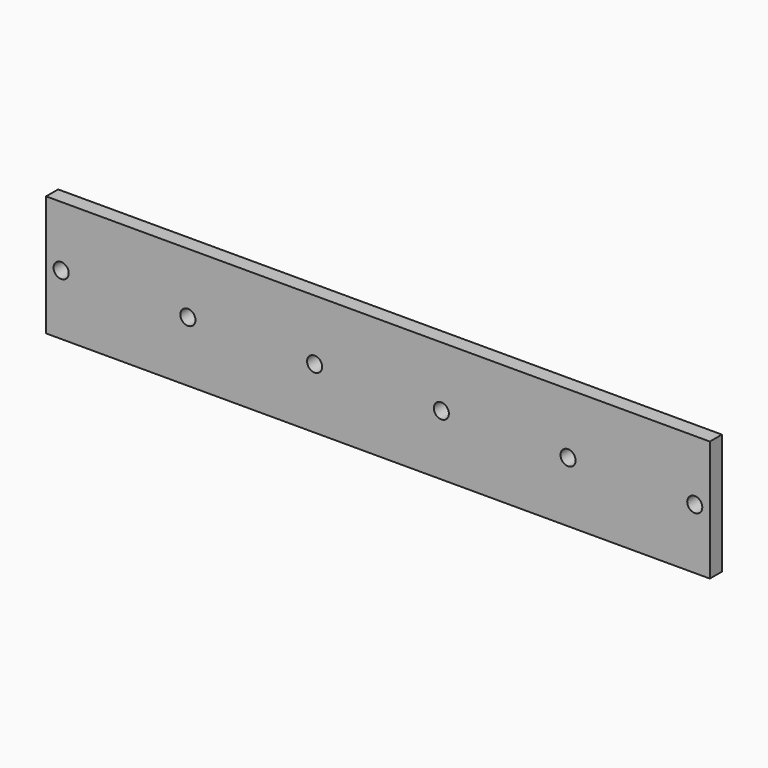
from build123d import *

# Parameters (mm, degrees)
F0_W     = 139.7
F0_H     = 25.4
F1_DEPTH = 3.175
F3_DEPTH = 25.4


with BuildPart() as f1:
    # F0 (on Front) → F1 (new body)
    with BuildSketch(Plane.XZ):
        Rectangle(F0_W, F0_H)
    extrude(amount=F1_DEPTH)

    # F2 (on face) → F3 (cut)
    with BuildSketch(Plane.XZ.offset(3.175)):
        with BuildLine():
            Line((-40.005, 0), (-38.4175, 0))
            ThreePointArc((-38.4175, 0), (-40.005, 1.5875), (-41.5925, 0))
            Line((-41.5925, 0), (-40.005, 0))
        make_face()
        with BuildLine():
            ThreePointArc((-68.2625, 0), (-66.675, -1.5875), (-65.0875, 0))
            Line((-65.0875, 0), (-66.675, 0))
            Line((-66.675, 0), (-68.2625, 0))
        make_face()
        with BuildLine():
            Line((-66.675, 0), (-65.0875, 0))
            ThreePointArc((-65.0875, 0), (-66.675, 1.5875), (-68.2625, 0))
            Line((-68.2625, 0), (-66.675, 0))
        make_face()
        with BuildLine():
            ThreePointArc((-41.5925, 0), (-40.005, -1.5875), (-38.4175, 0))
            Line((-38.4175, 0), (-40.005, 0))
            Line((-40.005, 0), (-41.5925, 0))
        make_face()
        with BuildLine():
            ThreePointArc((68.2625, 0), (66.675, 1.5875), (65.0875, 0))
            Line((65.0875, 0), (66.675, 0))
            Line((66.675, 0), (68.2625, 0))
        make_face()
        with BuildLine():
            Line((66.675, 0), (65.0875, 0))
            ThreePointArc((65.0875, 0), (66.675, -1.5875), (68.2625, 0))
            Line((68.2625, 0), (66.675, 0))
        make_face()
        with BuildLine():
            ThreePointArc((41.5925, 0), (40.005, 1.5875), (38.4175, 0))
            Line((38.4175, 0), (40.005, 0))
            Line((40.005, 0), (41.5925, 0))
        make_face()
        with BuildLine():
            Line((40.005, 0), (38.4175, 0))
            ThreePointArc((38.4175, 0), (40.005, -1.5875), (41.5925, 0))
            Line((41.5925, 0), (40.005, 0))
        make_face()
        with BuildLine():
            ThreePointArc((14.9225, 0), (13.335, 1.5875), (11.7475, 0))
            Line((11.7475, 0), (13.335, 0))
            Line((13.335, 0), (14.9225, 0))
        make_face()
        with BuildLine():
            Line((13.335, 0), (11.7475, 0))
            ThreePointArc((11.7475, 0), (13.335, -1.5875), (14.9225, 0))
            Line((14.9225, 0), (13.335, 0))
        make_face()
        with BuildLine():
            ThreePointArc((-11.7475, 0), (-13.335, 1.5875), (-14.9225, 0))
            Line((-14.9225, 0), (-13.335, 0))
            Line((-13.335, 0), (-11.7475, 0))
        make_face()
        with BuildLine():
            Line((-13.335, 0), (-14.9225, 0))
            ThreePointArc((-14.9225, 0), (-13.335, -1.5875), (-11.7475, 0))
            Line((-11.7475, 0), (-13.335, 0))
        make_face()
    extrude(amount=-F3_DEPTH, mode=Mode.SUBTRACT)


solid = f1.part
